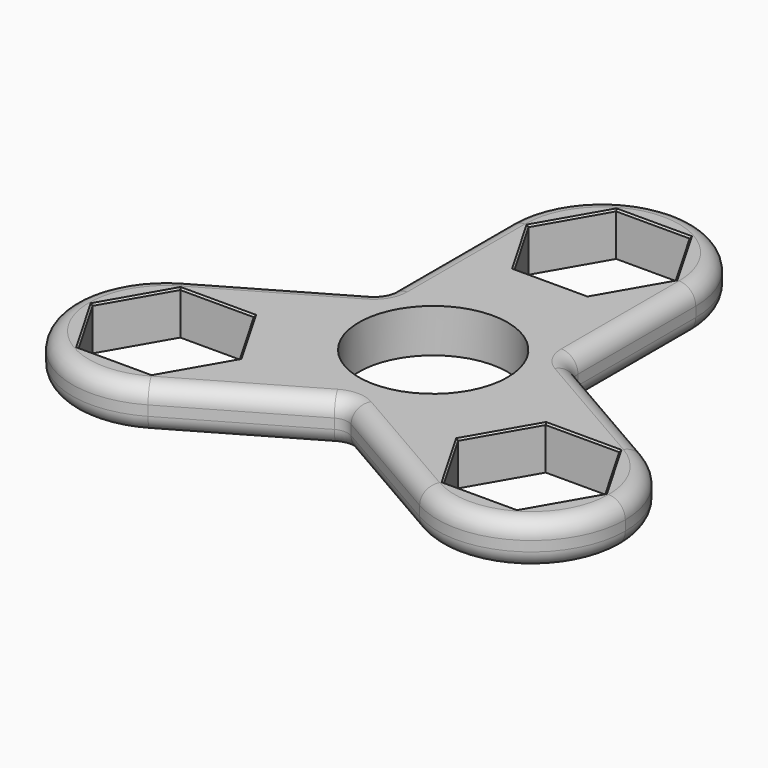
from build123d import *

# Parameters (mm, degrees)
F0_R     = 11.1
F1_DEPTH = 6.5
F2_R     = 2.5
F3_SIZE  = 0.25


with BuildPart() as f1:
    # F0 (on Top) → F1 (new body)
    with BuildSketch(Plane.XY):
        with BuildLine():
            Line((14, 8.0829037687), (14, 0))
            ThreePointArc((14, 0), (12.124355653, -7), (7, -12.124355653))
            Line((7, -12.124355653), (0, -16.1658075373))
            Line((0, -16.1658075373), (20.2798002192, -27.874355653))
            ThreePointArc((20.2798002192, -27.874355653), (15.1554445662, -8.75), (34.2798002192, -3.625644347))
            Line((34.2798002192, -3.625644347), (14, 8.0829037687))
        make_face()
        with BuildLine():
            ThreePointArc((7, 12.124355653), (12.124355653, 7), (14, 0))
            Line((14, 0), (14, 8.0829037687))
            Line((14, 8.0829037687), (7, 12.124355653))
        make_face()
        with BuildLine():
            ThreePointArc((-7, 12.124355653), (0, 14), (7, 12.124355653))
            Line((7, 12.124355653), (14, 8.0829037687))
            Line((14, 8.0829037687), (14, 31.5))
            ThreePointArc((14, 31.5), (0, 17.5), (-14, 31.5))
            Line((-14, 31.5), (-14, 8.0829037687))
            Line((-14, 8.0829037687), (-7, 12.124355653))
        make_face()
        with BuildLine():
            Line((0, -16.1658075373), (7, -12.124355653))
            ThreePointArc((7, -12.124355653), (0, -14), (-7, -12.124355653))
            Line((-7, -12.124355653), (0, -16.1658075373))
        make_face()
        with BuildLine():
            ThreePointArc((-14, 0), (-12.124355653, 7), (-7, 12.124355653))
            Line((-7, 12.124355653), (-14, 8.0829037687))
            Line((-14, 8.0829037687), (-14, 0))
        make_face()
        with BuildLine():
            Line((0, -16.1658075373), (-7, -12.124355653))
            ThreePointArc((-7, -12.124355653), (-12.124355653, -7), (-14, 0))
            Line((-14, 0), (-14, 8.0829037687))
            Line((-14, 8.0829037687), (-34.2798002192, -3.625644347))
            ThreePointArc((-34.2798002192, -3.625644347), (-20.2798002192, -3.625644347), (-13.2798002192, -15.75))
            ThreePointArc((-13.2798002192, -15.75), (-15.1554445662, -22.75), (-20.2798002192, -27.874355653))
            Line((-20.2798002192, -27.874355653), (0, -16.1658075373))
        make_face()
        with BuildLine():
            ThreePointArc((-14, 31.5), (0, 17.5), (14, 31.5))
            ThreePointArc((14, 31.5), (0, 45.5), (-14, 31.5))
        make_face()
        Polygon((10.9696551146, 31.5), (5.4848275573, 22), (-5.4848275573, 22), (-10.9696551146, 31.5), (-5.4848275573, 41), (5.4848275573, 41), align=None, mode=Mode.SUBTRACT)
        with BuildLine():
            ThreePointArc((41.2798002192, -15.75), (39.4041558722, -8.75), (34.2798002192, -3.625644347))
            ThreePointArc((34.2798002192, -3.625644347), (15.1554445662, -8.75), (20.2798002192, -27.874355653))
            ThreePointArc((20.2798002192, -27.874355653), (34.2798002192, -27.874355653), (41.2798002192, -15.75))
        make_face()
        Polygon((16.3101451046, -15.75), (21.7949726619, -6.25), (32.7646277765, -6.25), (38.2494553338, -15.75), (32.7646277765, -25.25), (21.7949726619, -25.25), align=None, mode=Mode.SUBTRACT)
        with BuildLine():
            ThreePointArc((-34.2798002192, -3.625644347), (-39.4041558722, -22.75), (-20.2798002192, -27.874355653))
            ThreePointArc((-20.2798002192, -27.874355653), (-15.1554445662, -22.75), (-13.2798002192, -15.75))
            ThreePointArc((-13.2798002192, -15.75), (-20.2798002192, -3.625644347), (-34.2798002192, -3.625644347))
        make_face()
        Polygon((-21.7949726619, -6.25), (-16.3101451046, -15.75), (-21.7949726619, -25.25), (-32.7646277765, -25.25), (-38.2494553338, -15.75), (-32.7646277765, -6.25), align=None, mode=Mode.SUBTRACT)
        with BuildLine():
            ThreePointArc((7, -12.124355653), (12.124355653, -7), (14, 0))
            ThreePointArc((14, 0), (12.124355653, 7), (7, 12.124355653))
            ThreePointArc((7, 12.124355653), (0, 14), (-7, 12.124355653))
            ThreePointArc((-7, 12.124355653), (-12.124355653, 7), (-14, 0))
            ThreePointArc((-14, 0), (-12.124355653, -7), (-7, -12.124355653))
            ThreePointArc((-7, -12.124355653), (0, -14), (7, -12.124355653))
        make_face()
        Circle(F0_R, mode=Mode.SUBTRACT)
    extrude(amount=F1_DEPTH)

    # F2
    f2_edges = [f1.edges().sort_by_distance(p)[0] for p in [
        (-20.2798, -27.874356, 3.25),
        (0, -16.165808, 3.25),
        (-10.1399, -22.020082, 0),
        (-10.1399, -22.020082, 6.5),
        (-34.2798, -3.625644, 3.25),
        (-39.404156, -22.75, 0),
        (-39.404156, -22.75, 6.5),
        (20.2798, -27.874356, 3.25),
        (10.1399, -22.020082, 0),
        (10.1399, -22.020082, 6.5),
        (34.2798, -3.625644, 3.25),
        (39.404156, -22.75, 0),
        (39.404156, -22.75, 6.5),
        (14, 8.082904, 3.25),
        (24.1399, 2.22863, 0),
        (24.1399, 2.22863, 6.5),
        (14, 31.5, 3.25),
        (14, 19.791452, 0),
        (14, 19.791452, 6.5),
        (-14, 31.5, 3.25),
        (-14, 8.082904, 3.25),
        (-14, 19.791452, 0),
        (-14, 19.791452, 6.5),
        (-24.1399, 2.22863, 0),
        (-24.1399, 2.22863, 6.5),
    ]]
    fillet(f2_edges, radius=F2_R)

    # F3
    f3_edges = [f1.edges().sort_by_distance(p)[0] for p in [
        (19.052559, -20.5, 6.5),
        (19.052559, -11, 6.5),
        (27.2798, -6.25, 6.5),
        (35.507042, -11, 6.5),
        (35.507042, -20.5, 6.5),
        (27.2798, -25.25, 6.5),
        (-35.507042, -20.5, 6.5),
        (-35.507042, -11, 6.5),
        (-27.2798, -6.25, 6.5),
        (-19.052559, -11, 6.5),
        (-19.052559, -20.5, 6.5),
        (-27.2798, -25.25, 6.5),
        (0, 22, 6.5),
        (8.227241, 26.75, 6.5),
        (8.227241, 36.25, 6.5),
        (0, 41, 6.5),
        (-8.227241, 36.25, 6.5),
        (-8.227241, 26.75, 6.5),
    ]]
    chamfer(f3_edges, length=F3_SIZE)


solid = f1.part
